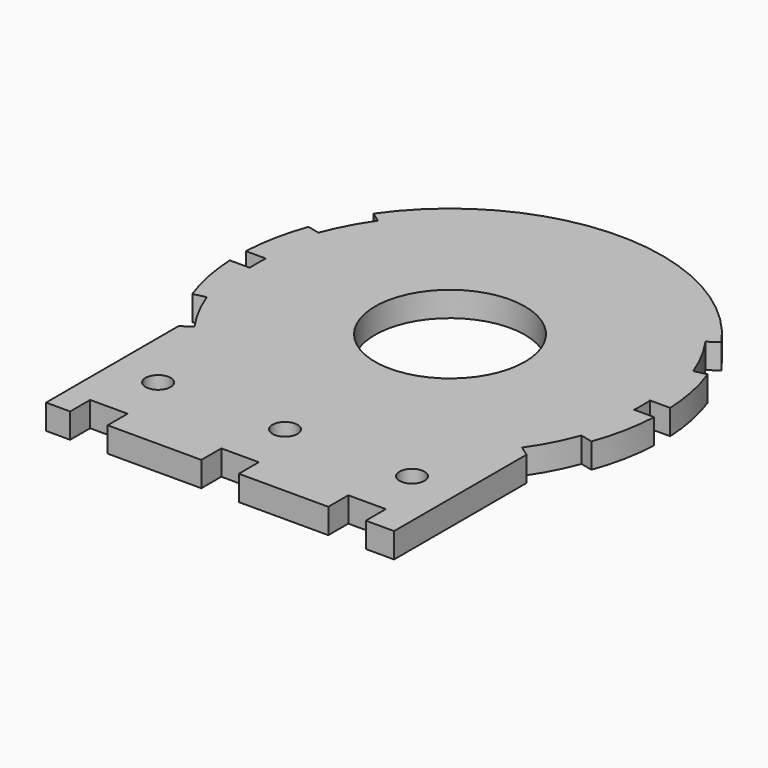
from build123d import *

# Parameters (mm, degrees)
SKETCH018_R     = 3
PAD011_DEPTH    = 1
SKETCH019_R     = 0.5
POCKET006_DEPTH = 2
POCKET007_DEPTH = 5


with BuildPart() as part:
    # Sketch018 (on ShapeBinder) → Pad011 (new body)
    with BuildSketch(Plane(origin=(0, 0, 0), x_dir=(1, 0, 0), z_dir=(0, 0, -1))):
        with BuildLine():
            ThreePointArc((-7.987387, 2.907171), (-8.333808, 1.672617), (-8.490583, 0.4))
            Line((-7.689603, 0.4), (-8.490583, 0.4))
            ThreePointArc((-7.689603, 0.4), (-7.7, 0), (-7.689603, -0.4))
            Line((-7.689603, -0.4), (-8.490583, -0.4))
            ThreePointArc((-8.490583, -0.4), (-8.333808, -1.672617), (-7.987387, -2.907171))
            Line((-7.987387, -2.907171), (-7.496671, -2.792834))
            ThreePointArc((-7.496671, -2.792834), (-7.082093, -3.720747), (-6.553216, -4.588611))
            Line((-6.962792, -4.8754), (-6.553216, -4.588611))
            ThreePointArc((-6.962792, -4.8754), (0, -8.5), (6.962792, -4.8754))
            Line((6.962792, -4.8754), (6.553216, -4.588611))
            ThreePointArc((6.553216, -4.588611), (7.082093, -3.720747), (7.496671, -2.792834))
            Line((7.987387, -2.907171), (7.496671, -2.792834))
            ThreePointArc((7.987387, -2.907171), (8.333808, -1.672617), (8.490583, -0.4))
            Line((8.490583, -0.4), (7.689603, -0.4))
            ThreePointArc((7.689603, -0.4), (7.7, 0), (7.689603, 0.4))
            Line((8.490583, 0.4), (7.689603, 0.4))
            ThreePointArc((8.490583, 0.4), (8.333808, 1.672617), (7.987387, 2.907171))
            Line((7.987387, 2.907171), (7.496671, 2.792834))
            ThreePointArc((7.496671, 2.792834), (7.082093, 3.720747), (6.553216, 4.588611))
            Line((6.962792, 4.8754), (6.553216, 4.588611))
            Line((6.962792, 4.8754), (6.962792, 11.5))
            Line((6.962792, 11.5), (-6.962792, 11.5))
            Line((-6.962792, 4.8754), (-6.962792, 11.5))
            Line((-6.962792, 4.8754), (-6.553216, 4.588611))
            ThreePointArc((-6.553216, 4.588611), (-7.082093, 3.720747), (-7.496671, 2.792834))
            Line((-7.987387, 2.907171), (-7.496671, 2.792834))
        make_face()
        Circle(SKETCH018_R, mode=Mode.SUBTRACT)
    extrude(amount=PAD011_DEPTH)

    # Sketch019 (on Face28 of Pad011) → Pocket006 (cut)
    with BuildSketch(Plane.XY):
        with Locations((0, -8.25)):
            Circle(SKETCH019_R)
        with Locations((-5.08, -8.25)):
            Circle(SKETCH019_R)
        with Locations((5.08, -8.25)):
            Circle(SKETCH019_R)
    extrude(amount=-POCKET006_DEPTH, mode=Mode.SUBTRACT)

    # Sketch020 (on Face4 of Pocket006) → Pocket007 (cut)
    with BuildSketch(Plane.XY):
        Polygon((-6.962792, -11.5), (-6, -11.5), (-6, -10.5), (-4.5, -10.5), (-4.5, -11.5), (-0.75, -11.5), (-0.75, -10.5), (0.75, -10.5), (0.75, -11.5), (4.33, -11.5), (4.33, -10.5), (5.83, -10.5), (5.83, -11.5), (6.962792, -11.5), (6.962792, -12.871278), (-6.962792, -12.871278), align=None)
    extrude(amount=-POCKET007_DEPTH, mode=Mode.SUBTRACT)


solid = part.part
